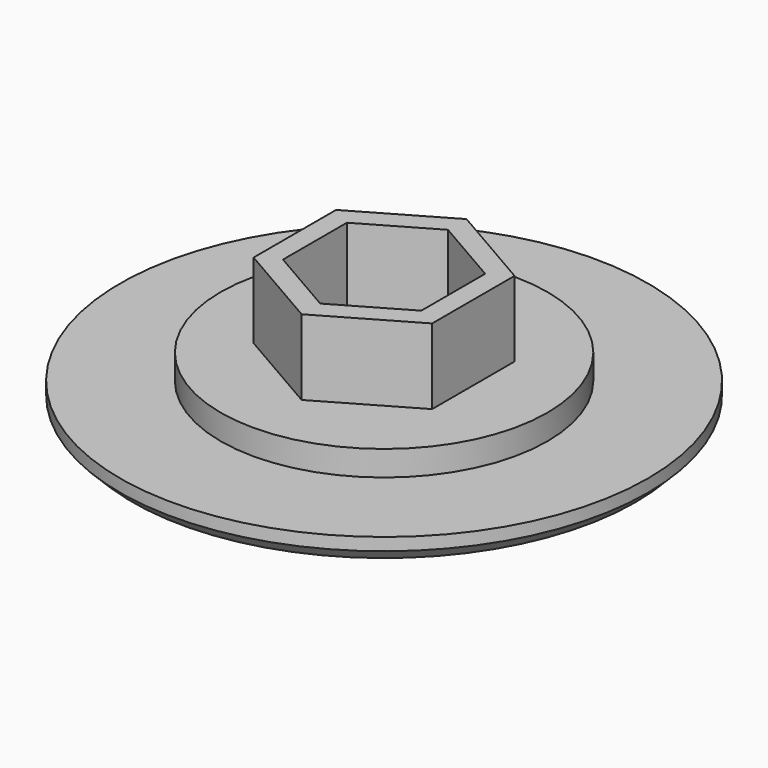
from build123d import *

# Parameters (mm, degrees)
F0_R     = 10.5
F1_DEPTH = 1
F2_R     = 6.5
F3_DEPTH = 1
F5_DEPTH = 3
F6_T     = -0.8
F7_SIZE  = 0.5


with BuildPart() as f1:
    # F0 (on Top) → F1 (new body)
    with BuildSketch(Plane.XY):
        Circle(F0_R)
    extrude(amount=F1_DEPTH)

    # F2 (on face) → F3 (join)
    with BuildSketch(Plane.XY.offset(1)):
        Circle(F2_R)
    extrude(amount=F3_DEPTH)

    # F4 (on face) → F5 (join)
    with BuildSketch(Plane.XY.offset(2)):
        Polygon((3.5507041555, 2.05), (0, 4.1), (-3.5507041555, 2.05), (-3.5507041555, -2.05), (0, -4.1), (3.5507041555, -2.05), align=None)
    extrude(amount=F5_DEPTH)

    # F6
    f6_openings = [f1.faces().sort_by_distance(p)[0] for p in [
        (0, 0, 5),
    ]]
    offset(amount=F6_T, openings=f6_openings, kind=Kind.INTERSECTION)

    # F7
    f7_edges = [f1.edges().sort_by_distance(p)[0] for p in [
        (-10.5, 0, 0),
    ]]
    chamfer(f7_edges, length=F7_SIZE)


solid = f1.part
